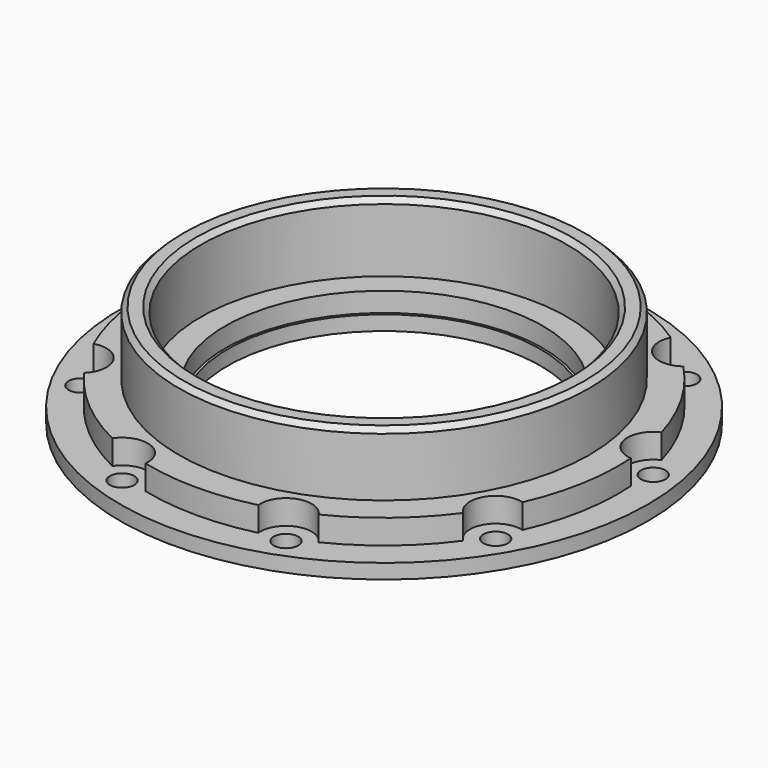
from build123d import *

# Parameters (mm, degrees)
SKETCH_R      = 54
SKETCH_R_2    = 32
SKETCH_R_3    = 2.5
PAD_DEPTH     = 3
SKETCH001_R   = 37.5
SKETCH001_R_2 = 32.5
PAD001_DEPTH  = 4
SKETCH002_R   = 42
SKETCH002_R_2 = 37.5
PAD002_DEPTH  = 18
SKETCH003_R   = 48
SKETCH003_R_2 = 42
PAD003_DEPTH  = 5
SKETCH004_R   = 32
SKETCH004_R_2 = 5.25
POCKET_DEPTH  = 18.001
CHAMFER_SIZE  = 1


with BuildPart() as part:
    # Sketch → Pad (new body)
    with BuildSketch(Plane.XY):
        Circle(SKETCH_R)
        Circle(SKETCH_R_2, mode=Mode.SUBTRACT)
        with Locations((31.496593, 37.536178)):
            Circle(SKETCH_R_3, mode=Mode.SUBTRACT)
        with Locations((48.25558, 8.508761)):
            Circle(SKETCH_R_3, mode=Mode.SUBTRACT)
        with Locations((42.435245, -24.5)):
            Circle(SKETCH_R_3, mode=Mode.SUBTRACT)
        with Locations((16.758987, -46.044938)):
            Circle(SKETCH_R_3, mode=Mode.SUBTRACT)
        with Locations((-16.758987, -46.044938)):
            Circle(SKETCH_R_3, mode=Mode.SUBTRACT)
        with Locations((-42.435245, -24.5)):
            Circle(SKETCH_R_3, mode=Mode.SUBTRACT)
        with Locations((-48.25558, 8.508761)):
            Circle(SKETCH_R_3, mode=Mode.SUBTRACT)
        with Locations((-31.496593, 37.536178)):
            Circle(SKETCH_R_3, mode=Mode.SUBTRACT)
        with Locations((0, 49)):
            Circle(SKETCH_R_3, mode=Mode.SUBTRACT)
    extrude(amount=PAD_DEPTH)

    # Sketch001 (on Face13 of Pad) → Pad001 (join)
    with BuildSketch(Plane.XY.offset(3)):
        Circle(SKETCH001_R)
        Circle(SKETCH001_R_2, mode=Mode.SUBTRACT)
    extrude(amount=PAD001_DEPTH)

    # Sketch002 (on Face3 of Pad001) → Pad002 (join)
    with BuildSketch(Plane.XY.offset(3)):
        Circle(SKETCH002_R)
        Circle(SKETCH002_R_2, mode=Mode.SUBTRACT)
    extrude(amount=PAD002_DEPTH)

    # Sketch003 (on Face3 of Pad002) → Pad003 (join)
    with BuildSketch(Plane.XY.offset(3)):
        Circle(SKETCH003_R)
        Circle(SKETCH003_R_2, mode=Mode.SUBTRACT)
    extrude(amount=PAD003_DEPTH)

    # Sketch004 → Pocket (cut, through all)
    with BuildSketch(Plane.XY.offset(3)):
        Circle(SKETCH004_R)
        with Locations((31.496593, 37.536178)):
            Circle(SKETCH004_R_2)
        with Locations((48.25558, 8.508761)):
            Circle(SKETCH004_R_2)
        with Locations((42.435245, -24.5)):
            Circle(SKETCH004_R_2)
        with Locations((16.758987, -46.044938)):
            Circle(SKETCH004_R_2)
        with Locations((-16.758987, -46.044938)):
            Circle(SKETCH004_R_2)
        with Locations((-42.435245, -24.5)):
            Circle(SKETCH004_R_2)
        with Locations((-48.25558, 8.508761)):
            Circle(SKETCH004_R_2)
        with Locations((-31.496593, 37.536178)):
            Circle(SKETCH004_R_2)
        with Locations((0, 49)):
            Circle(SKETCH004_R_2)
    extrude(amount=POCKET_DEPTH, mode=Mode.SUBTRACT)

    # Chamfer
    chamfer_edges = [part.edges().sort_by_distance(p)[0] for p in [
        (-37.5, 0, 21),
        (-42, 0, 21),
    ]]
    chamfer(chamfer_edges, length=CHAMFER_SIZE)


solid = part.part
